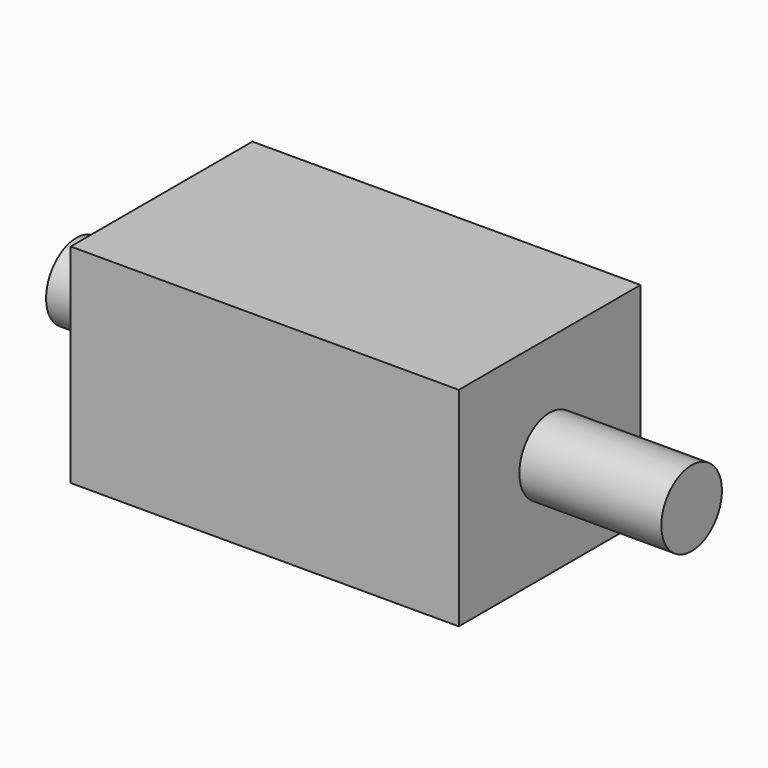
from build123d import *

# Parameters (mm, degrees)
F0_W          = 20.5
F0_H          = 12
F1_DEPTH      = 5.5
F1_DEPTH_BACK = 5.5
F2_R          = 2
F3_DEPTH      = 4.5
F4_R          = 2
F5_DEPTH      = 7.5
F6_W          = 1
F6_H          = 5
F7_DEPTH      = 2


with BuildPart() as f1:
    # F0 (on Top) → F1 (new body, two sides)
    with BuildSketch(Plane.XY) as f1_sk:
        Rectangle(F0_W, F0_H)
    extrude(amount=F1_DEPTH)
    extrude(f1_sk.sketch, amount=-F1_DEPTH_BACK)

    # F2 (on face) → F3 (join)
    with BuildSketch(Plane(origin=(-10.25, 0, 0), x_dir=(0, -1, 0), z_dir=(-1, 0, 0))):
        Circle(F2_R)
    extrude(amount=F3_DEPTH)

    # F4 (on face) → F5 (join)
    with BuildSketch(Plane.YZ.offset(10.25)):
        Circle(F4_R)
    extrude(amount=F5_DEPTH)

    # F6 (on face) → F7 (join)
    with BuildSketch(Plane(origin=(0, 0, -5.5), x_dir=(1, 0, 0), z_dir=(0, 0, -1))):
        with Locations((-8.75, 0)):
            Rectangle(F6_W, F6_H)
    extrude(amount=F7_DEPTH)


solid = f1.part
